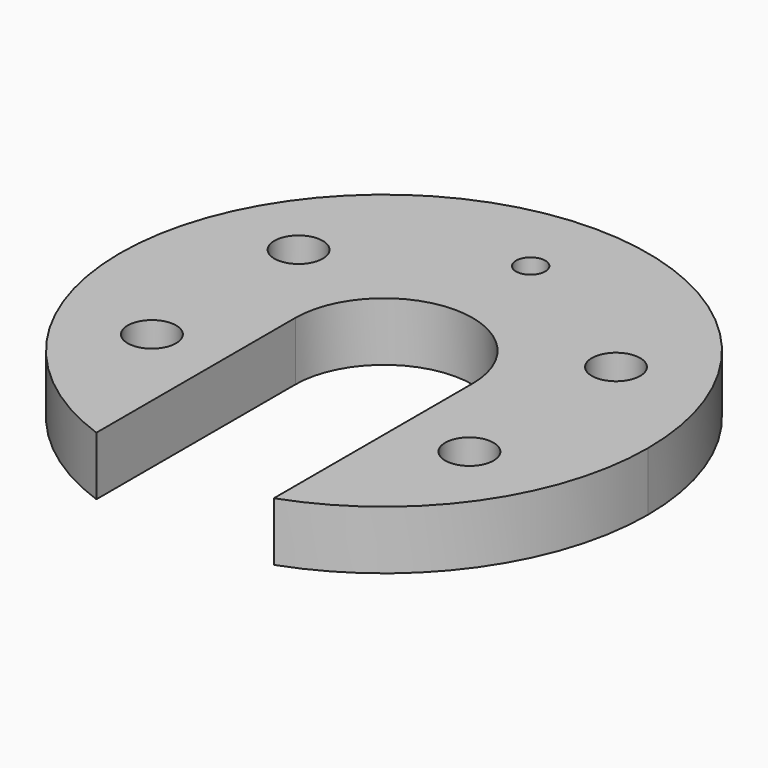
from build123d import *

# Parameters (mm, degrees)
F0_R     = 1.65
F0_R_2   = 1
F1_DEPTH = 4


with BuildPart() as f1:
    # F0 (on Top) → F1 (new body)
    with BuildSketch(Plane.XY):
        with BuildLine():
            ThreePointArc((-22.118284, 17.320522), (-13.456044, 23.902693), (-10.168284, 34.273324))
            ThreePointArc((-10.168284, 34.273324), (-38.538916, 48.985564), (-34.218284, 17.320522))
            Line((-34.218284, 17.320522), (-34.218284, 34.273324))
            ThreePointArc((-34.218284, 34.273324), (-28.168284, 40.323324), (-22.118284, 34.273324))
            Line((-22.118284, 34.273324), (-22.118284, 17.320522))
        make_face()
        with Locations((-38.993284, 28.023324)):
            Circle(F0_R, mode=Mode.SUBTRACT)
        with Locations((-17.343284, 28.023324)):
            Circle(F0_R, mode=Mode.SUBTRACT)
        with Locations((-38.993284, 40.523324)):
            Circle(F0_R, mode=Mode.SUBTRACT)
        with Locations((-28.168284, 46.773324)):
            Circle(F0_R_2, mode=Mode.SUBTRACT)
        with Locations((-17.343284, 40.523324)):
            Circle(F0_R, mode=Mode.SUBTRACT)
    extrude(amount=F1_DEPTH)


solid = f1.part
